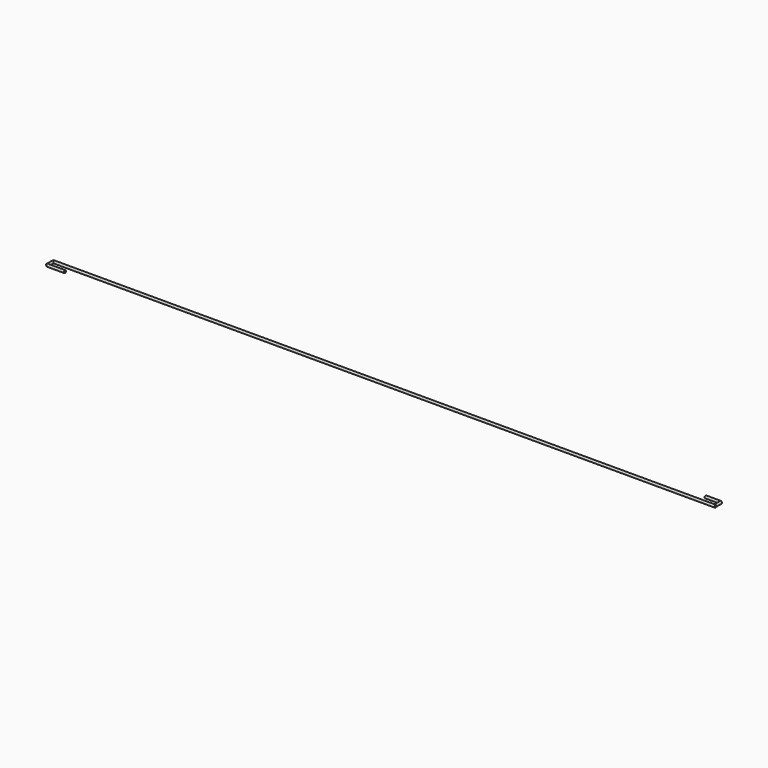
from build123d import *

# Parameters (mm, degrees)
F0_R      = 0.97
F1_DEPTH  = 525
F2_R      = 0.97
F3_DEPTH  = 6
F4_R      = 0.97
F6_DEPTH  = 14
F7_R      = 0.97
F8_DEPTH  = 6
F11_R     = 0.97
F12_DEPTH = 12


with BuildPart() as f1:
    # F0 (on Right) → F1 (new body)
    with BuildSketch(Plane.YZ):
        Circle(F0_R)
    extrude(amount=F1_DEPTH)

    # F2 (on Front) → F3 (join)
    with BuildSketch(Plane.XZ):
        Circle(F2_R)
    extrude(amount=F3_DEPTH)


with BuildPart() as f1_1:
    # F5: moved
    add(f1.part.moved(Location((0, 2, 0))))

    # F4 (on Right) → F6 (join)
    with BuildSketch(Plane.YZ):
        with Locations((-4.0174978785, 0)):
            Circle(F4_R)
    extrude(amount=F6_DEPTH)



with BuildPart() as f8:
    # F7 (on Front) → F8 (new body)
    with BuildSketch(Plane.XZ):
        with Locations((524.2725610733, 0)):
            Circle(F7_R)
    extrude(amount=F8_DEPTH)


with BuildPart() as f8_1:
    # F9: moved
    add(f8.part.moved(Location((0, 8, 0))))


with BuildPart() as f1_2:
    add(f1_1.part)

    add(f8_1.part)  # F12 merges F8
    # F11 (on face) → F12 (join)
    with BuildSketch(Plane.YZ.offset(524.2725610733)):
        with Locations((8.0255521461, 0)):
            Circle(F11_R)
    extrude(amount=-F12_DEPTH)


solid = f1_2.part
